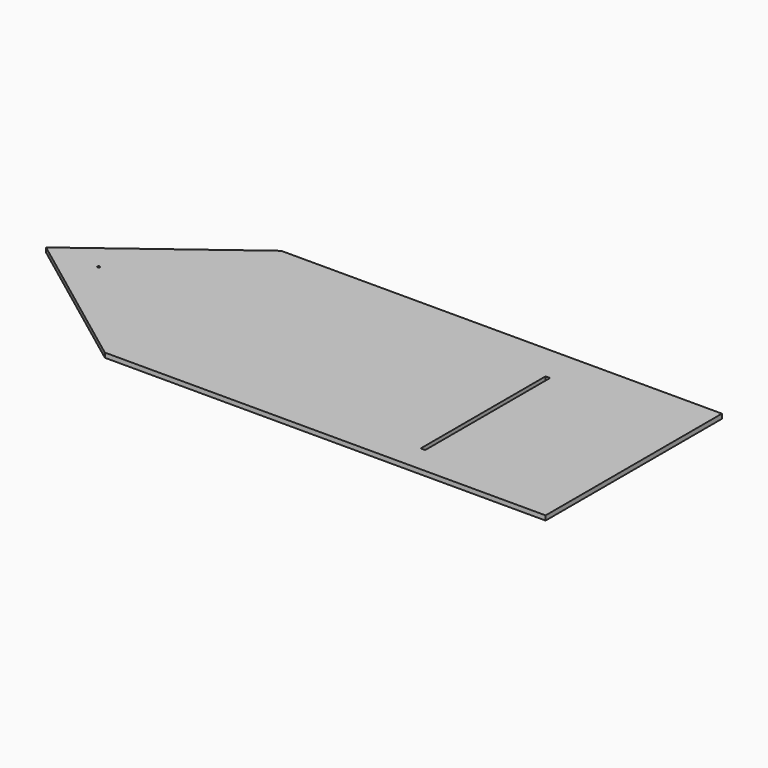
from build123d import *

# Parameters (mm, degrees)
F0_W     = 12.446
F0_H     = 431.8
F0_R     = 3.175
F1_DEPTH = 12.7


with BuildPart() as f1:
    # F0 (on Top) → F1 (new body)
    with BuildSketch(Plane.XY):
        Polygon((602.978926, 205.187889), (-616.221074, 205.187889), (-1022.621074, -99.612111), (-616.221074, -404.412111), (602.978926, -404.412111), align=None)
        with Locations((202.801926, -112.431925)):
            Rectangle(F0_W, F0_H, mode=Mode.SUBTRACT)
        with Locations((-877.206781, -99.612111)):
            Circle(F0_R, mode=Mode.SUBTRACT)
    extrude(amount=F1_DEPTH)


solid = f1.part
